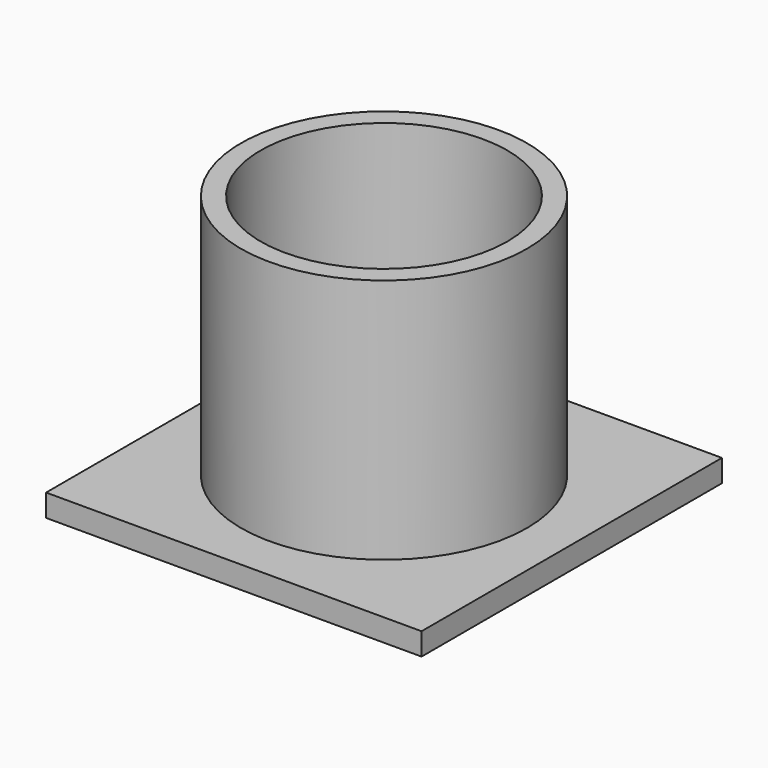
from build123d import *

# Parameters (mm, degrees)
F0_R     = 20.32
F0_R_2   = 17.526
F1_DEPTH = 38.1
F2_W     = 53.34
F2_H     = 53.34
F3_DEPTH = 3.175
F4_R     = 7.14375
F5_DEPTH = 12.7


with BuildPart() as f1:
    # F0 (on Top) → F1 (new body)
    with BuildSketch(Plane.XY):
        Circle(F0_R)
        Circle(F0_R_2, mode=Mode.SUBTRACT)
    extrude(amount=F1_DEPTH)

    # F2 (on Top) → F3 (join)
    with BuildSketch(Plane.XY):
        Rectangle(F2_W, F2_H)
    extrude(amount=F3_DEPTH)

    # F4 (on face) → F5 (join)
    with BuildSketch(Plane.XY.offset(3.175)):
        Circle(F4_R)
    extrude(amount=F5_DEPTH)


solid = f1.part
